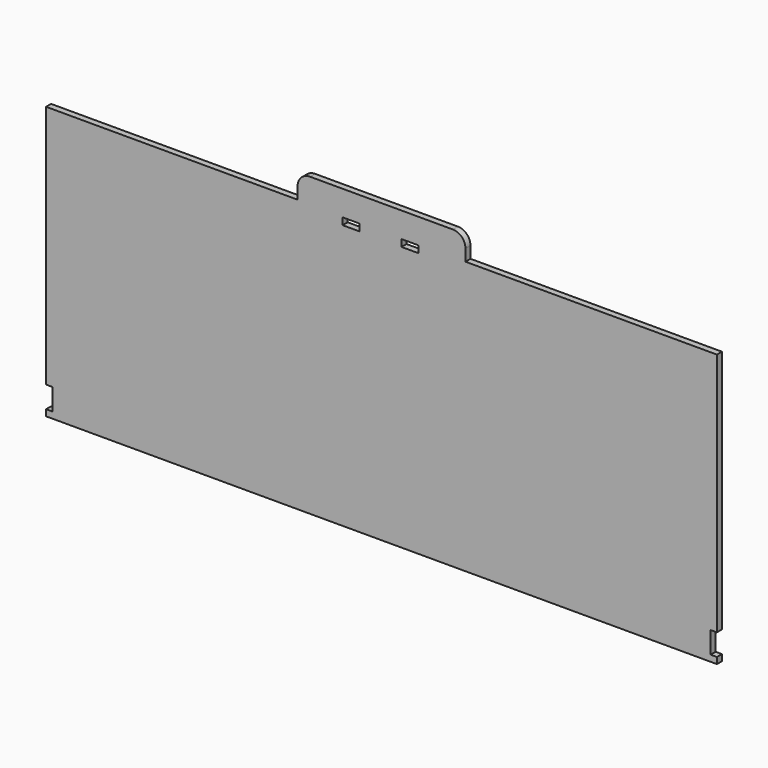
from build123d import *

# Parameters (mm, degrees)
F0_W     = 8
F0_H     = 3.3
F1_DEPTH = 3


with BuildPart() as f1:
    # F0 (on Front) → F1 (new body)
    with BuildSketch(Plane.XZ):
        with BuildLine():
            Line((-220, -35.777669), (-220, -38.777669))
            Line((-220, -38.777669), (100, -38.777669))
            Line((100, -38.777669), (100, -35.777669))
            Line((100, -35.777669), (97, -35.777669))
            Line((97, -35.777669), (97, -25.444639))
            Line((97, -25.444639), (100, -25.444669))
            Line((100, -25.444669), (100, 91.222331))
            Line((100, 91.222331), (-19.945289, 91.222331))
            Line((-19.945289, 91.222331), (-19.945289, 96.801867))
            ThreePointArc((-19.945289, 96.801867), (-21.702648, 101.044508), (-25.945289, 102.801867))
            Line((-25.945289, 102.801867), (-94.054711, 102.801867))
            ThreePointArc((-94.054711, 102.801867), (-98.297352, 101.044508), (-100.054711, 96.801867))
            Line((-100.054711, 96.801867), (-100.054711, 91.222331))
            Line((-100.054711, 91.222331), (-220, 91.222331))
            Line((-220, 91.222331), (-220, -25.444669))
            Line((-220, -25.444669), (-217, -25.444669))
            Line((-217, -25.444669), (-217, -35.777669))
            Line((-217, -35.777669), (-220, -35.777669))
        make_face()
        with Locations((-74.548644, 89.151867)):
            Rectangle(F0_W, F0_H, mode=Mode.SUBTRACT)
        with Locations((-46.439216, 89.151867)):
            Rectangle(F0_W, F0_H, mode=Mode.SUBTRACT)
    extrude(amount=F1_DEPTH)


solid = f1.part
